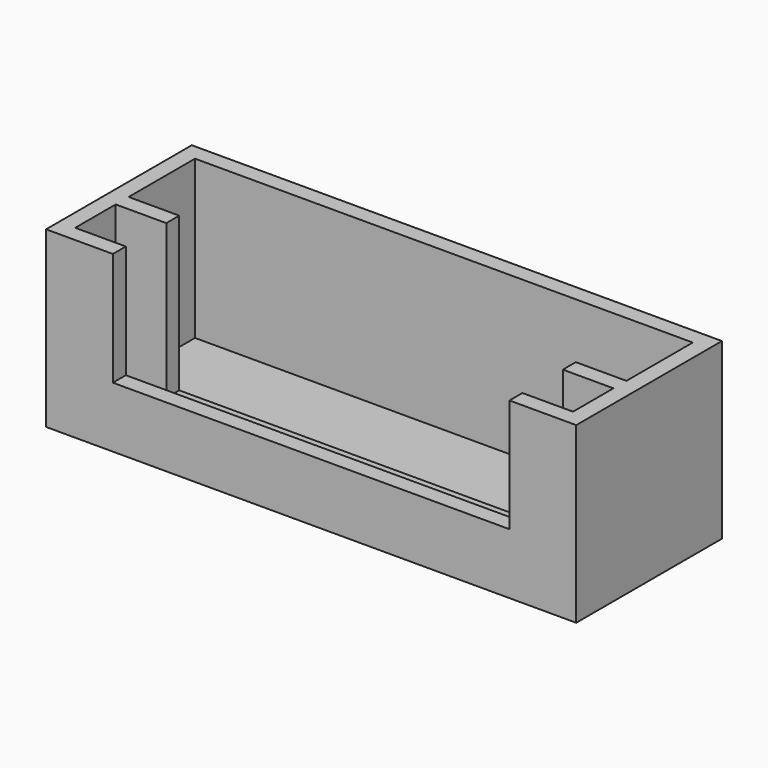
from build123d import *

# Parameters (mm, degrees)
F1_DEPTH = 43
F3_DEPTH = 28
F4_W     = 123
F4_H     = 12.5
F5_DEPTH = 39
F6_W     = 98
F6_H     = 4
F7_DEPTH = 38
F8_W     = 123
F8_H     = 20.5
F9_DEPTH = 39


with BuildPart() as f1:
    # F0 (on Top) → F1 (new body)
    with BuildSketch(Plane.XY):
        Polygon((-65.5, 0), (0, 0), (65.5, 0), (65.5, 45), (0, 45), (-65.5, 45), align=None)
    extrude(amount=-F1_DEPTH)

    # F2 (on face) → F3 (cut)
    with BuildSketch(Plane.XY):
        Polygon((-49, 4), (-49, 0), (0, 0), (49, 0), (49, 4), (0, 4), align=None)
    extrude(amount=-F3_DEPTH, mode=Mode.SUBTRACT)

    # F4 (on face) → F5 (cut)
    with BuildSketch(Plane.XY):
        with Locations((0, 10.25)):
            Rectangle(F4_W, F4_H)
    extrude(amount=-F5_DEPTH, mode=Mode.SUBTRACT)

    # F6 (on face) → F7 (cut)
    with BuildSketch(Plane.XY):
        with Locations((0, 18.5)):
            Rectangle(F6_W, F6_H)
    extrude(amount=-F7_DEPTH, mode=Mode.SUBTRACT)

    # F8 (on face) → F9 (cut)
    with BuildSketch(Plane.XY):
        with Locations((0, 30.75)):
            Rectangle(F8_W, F8_H)
    extrude(amount=-F9_DEPTH, mode=Mode.SUBTRACT)


solid = f1.part
